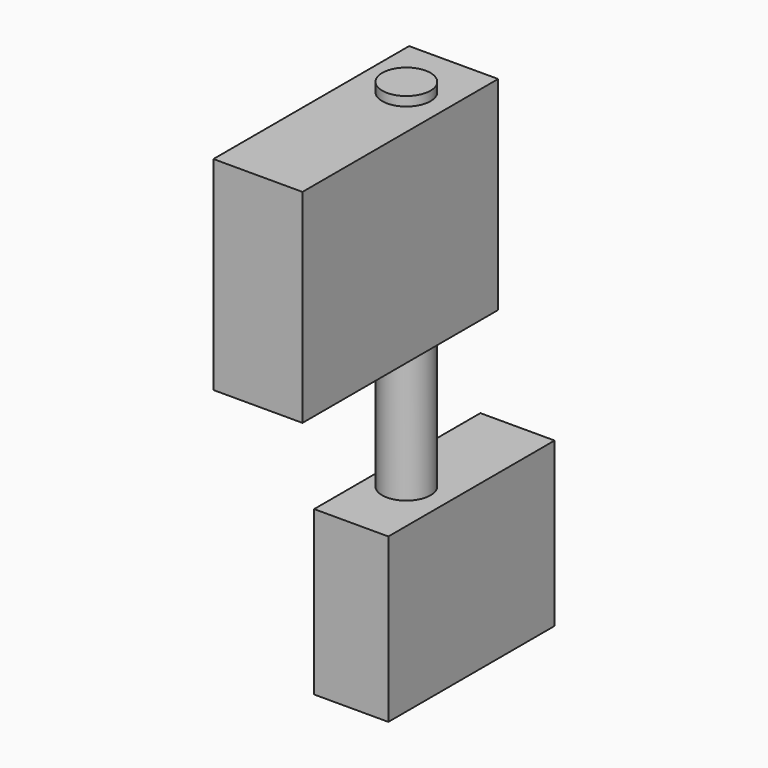
from build123d import *

# Parameters (mm, degrees)
F0_W     = 190.5
F0_H     = 533.4
F1_DEPTH = 419.1
F2_R     = 61.948807
F3_DEPTH = 914.4
F4_W     = 627.843589
F4_H     = 522.065521
F5_DEPTH = 228.6


with BuildPart() as f1:
    # F0 (on Top) → F1 (new body)
    with BuildSketch(Plane.XY):
        with Locations((95.25, 266.7)):
            Rectangle(F0_W, F0_H)
    extrude(amount=F1_DEPTH)

    # F2 (on face) → F3 (join)
    with BuildSketch(Plane.XY.offset(419.1)):
        with Locations((82.928531, 192.244217)):
            Circle(F2_R)
    extrude(amount=F3_DEPTH)

    # F4 (on face) → F5 (join)
    with BuildSketch(Plane.YZ.offset(190.5)):
        with Locations((38.371071, 1048.732937)):
            Rectangle(F4_W, F4_H)
    extrude(amount=-F5_DEPTH)


solid = f1.part
